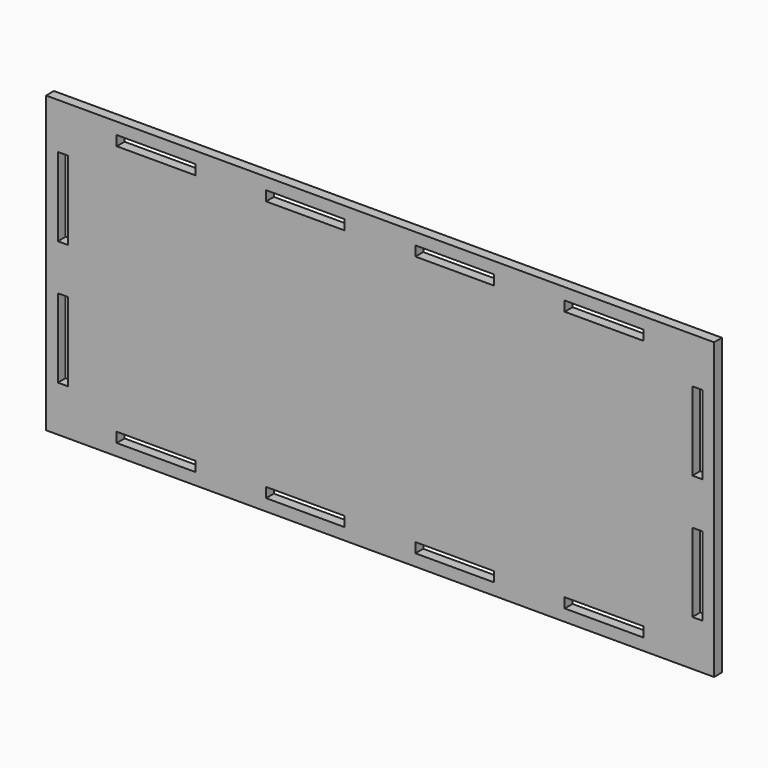
from build123d import *

# Parameters (mm, degrees)
F0_W     = 215.9
F0_H     = 95.25
F0_W_2   = 25.4254
F0_H_2   = 3.2004
F0_W_3   = 3.2004
F0_H_3   = 25.4254
F1_DEPTH = 3.175


with BuildPart() as f1:
    # F0 (on Front) → F1 (new body)
    with BuildSketch(Plane.XZ):
        with Locations((10.806967, -3.292766)):
            Rectangle(F0_W, F0_H)
        with Locations((-61.590653, -45.507566)):
            Rectangle(F0_W_2, F0_H_2, mode=Mode.SUBTRACT)
        with Locations((-13.325573, -45.507566)):
            Rectangle(F0_W_2, F0_H_2, mode=Mode.SUBTRACT)
        with Locations((-91.732833, -23.407026)):
            Rectangle(F0_W_3, F0_H_3, mode=Mode.SUBTRACT)
        with Locations((34.939507, -45.507566)):
            Rectangle(F0_W_2, F0_H_2, mode=Mode.SUBTRACT)
        with Locations((83.204587, -45.507566)):
            Rectangle(F0_W_2, F0_H_2, mode=Mode.SUBTRACT)
        with Locations((113.346767, -23.407026)):
            Rectangle(F0_W_3, F0_H_3, mode=Mode.SUBTRACT)
        with Locations((-91.732833, 16.818954)):
            Rectangle(F0_W_3, F0_H_3, mode=Mode.SUBTRACT)
        with Locations((-61.590653, 38.922034)):
            Rectangle(F0_W_2, F0_H_2, mode=Mode.SUBTRACT)
        with Locations((-13.325573, 38.922034)):
            Rectangle(F0_W_2, F0_H_2, mode=Mode.SUBTRACT)
        with Locations((113.346767, 16.818954)):
            Rectangle(F0_W_3, F0_H_3, mode=Mode.SUBTRACT)
        with Locations((34.939507, 38.922034)):
            Rectangle(F0_W_2, F0_H_2, mode=Mode.SUBTRACT)
        with Locations((83.204587, 38.922034)):
            Rectangle(F0_W_2, F0_H_2, mode=Mode.SUBTRACT)
    extrude(amount=F1_DEPTH)


solid = f1.part
